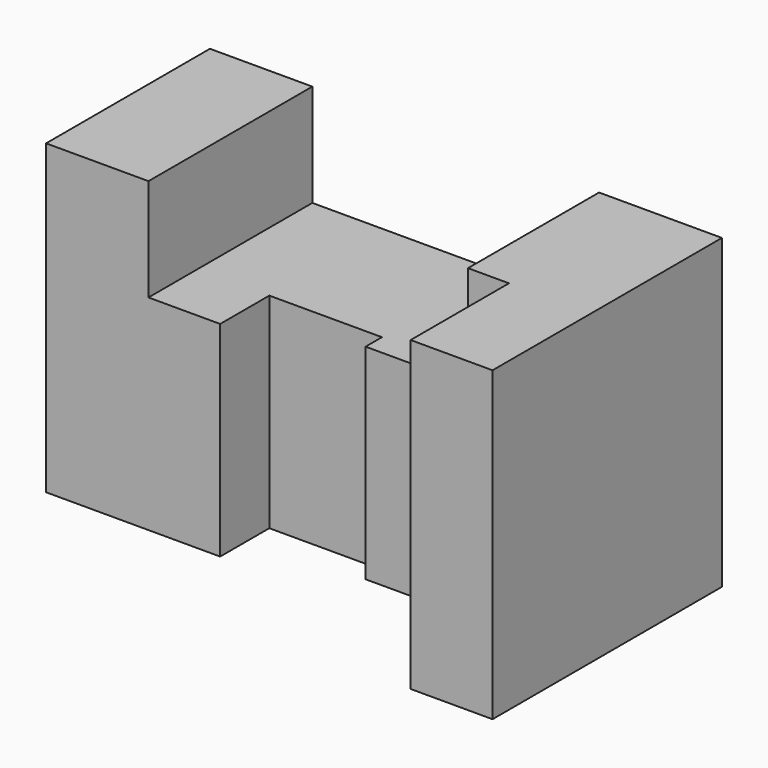
from build123d import *

# Parameters (mm, degrees)
F1_DEPTH = 75
F3_DEPTH = 25


with BuildPart() as f1:
    # F0 (on Top) → F1 (new body)
    with BuildSketch(Plane.XY):
        Polygon((0, 50), (0, 0), (42.5, 0), (42.5, 15), (70, 15), (70, 10), (105, 10), (105, -20), (125, -20), (125, 50), align=None)
    extrude(amount=F1_DEPTH)

    # F2 (on face) → F3 (cut)
    with BuildSketch(Plane.XY.offset(75)):
        Polygon((95, 10), (95, 50), (25, 50), (25, 0), (42.5, 0), (42.5, 15), (70, 15), (70, 10), align=None)
    extrude(amount=-F3_DEPTH, mode=Mode.SUBTRACT)


solid = f1.part
